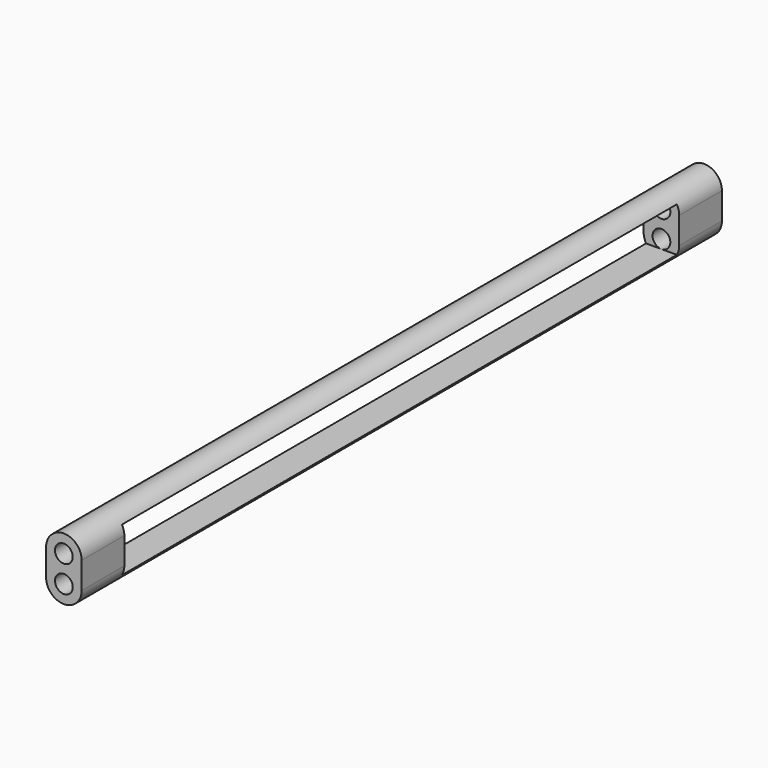
from build123d import *

# Parameters (mm, degrees)
F0_R     = 0.5
F1_DEPTH = 45
F2_W     = 39
F2_H     = 2.5
F3_DEPTH = 2.001


with BuildPart() as f1:
    # F0 (on Front) → F1 (new body)
    with BuildSketch(Plane.XZ):
        with BuildLine():
            ThreePointArc((-1, -0.75), (0, -1.75), (1, -0.75))
            Line((1, -0.75), (1, 0.75))
            ThreePointArc((1, 0.75), (0, 1.75), (-1, 0.75))
            Line((-1, 0.75), (-1, -0.75))
        make_face()
        with Locations((0, -0.75)):
            Circle(F0_R, mode=Mode.SUBTRACT)
        with Locations((0, 0.75)):
            Circle(F0_R, mode=Mode.SUBTRACT)
        with BuildLine():
            ThreePointArc((-1, -0.75), (0, -1.75), (1, -0.75))
            Line((1, -0.75), (1, 0.75))
            ThreePointArc((1, 0.75), (0, 1.75), (-1, 0.75))
            Line((-1, 0.75), (-1, -0.75))
        make_face()
        with Locations((0, -0.75)):
            Circle(F0_R, mode=Mode.SUBTRACT)
        with Locations((0, 0.75)):
            Circle(F0_R, mode=Mode.SUBTRACT)
    extrude(amount=F1_DEPTH)

    # F2 (on face) → F3 (cut, through all)
    with BuildSketch(Plane.YZ.offset(1)):
        with Locations((-22.5, 0)):
            Rectangle(F2_W, F2_H)
    extrude(amount=-F3_DEPTH, mode=Mode.SUBTRACT)


solid = f1.part
